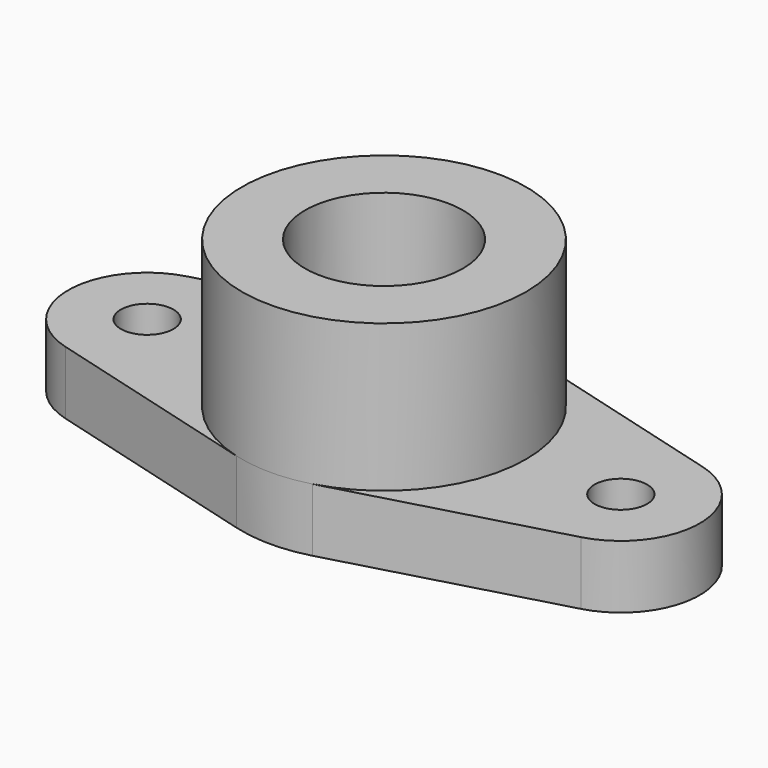
from build123d import *

# Parameters (mm, degrees)
SKETCH_R     = 5
PAD_DEPTH    = 12
SKETCH001_R  = 27
PAD001_DEPTH = 28
SKETCH002_R  = 15
POCKET_DEPTH = 25


with BuildPart() as part:
    # Sketch → Pad (new body)
    with BuildSketch(Plane.XY):
        with BuildLine():
            ThreePointArc((7.2, 26.022298), (0, 27), (-7.2, 26.022298))
            Line((-49, 14.456832), (-7.2, 26.022298))
            ThreePointArc((-49, 14.456832), (-60, -1.6e-05), (-48.999969, -14.456841))
            Line((-7.2, -26.022298), (-48.999969, -14.456841))
            ThreePointArc((-7.2, -26.022298), (0, -27), (7.2, -26.022298))
            Line((49, -14.456832), (7.2, -26.022298))
            ThreePointArc((49, -14.456832), (60, 0), (49, 14.456832))
            Line((7.2, 26.022298), (49, 14.456832))
        make_face()
        with Locations((45, 0)):
            Circle(SKETCH_R, mode=Mode.SUBTRACT)
        with Locations((-45, 0)):
            Circle(SKETCH_R, mode=Mode.SUBTRACT)
    extrude(amount=PAD_DEPTH)

    # Sketch001 → Pad001 (new body)
    with BuildSketch(Plane.XY.offset(12)):
        Circle(SKETCH001_R)
    extrude(amount=PAD001_DEPTH)

    # Sketch002 → Pocket (cut)
    with BuildSketch(Plane.XY.offset(40)):
        Circle(SKETCH002_R)
    extrude(amount=-POCKET_DEPTH, mode=Mode.SUBTRACT)


solid = part.part
